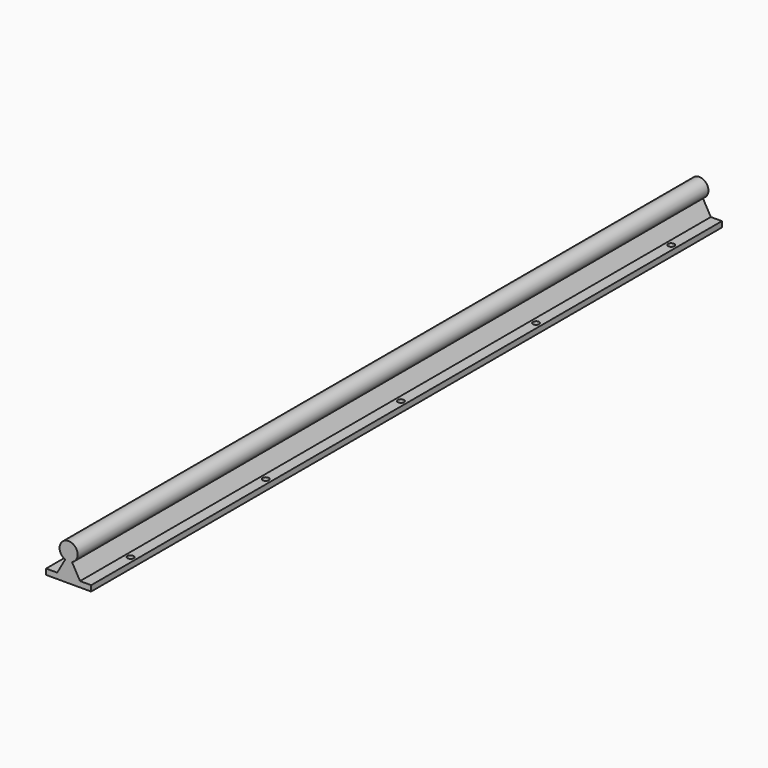
from build123d import *

# Parameters (mm, degrees)
F1_DEPTH = 700
F3_D     = 5.5


with BuildPart() as f1:
    # F0 (on Front) → F1 (new body)
    with BuildSketch(Plane.XZ):
        with BuildLine():
            Line((-20, 0), (0, 0))
            Line((0, 0), (20, 0))
            Line((20, 0), (20, 5))
            Line((20, 5), (10.1524459668, 5))
            Line((10.1524459668, 5), (3, 17.5838015129))
            ThreePointArc((3, 17.5838015129), (0, 33), (-3, 17.5838015129))
            Line((-3, 17.5838015129), (-10.1524459668, 5))
            Line((-10.1524459668, 5), (-20, 5))
            Line((-20, 5), (-20, 0))
        make_face()
    extrude(amount=F1_DEPTH)

    # F3 (through all)
    with Locations(Plane(origin=(0, 0, 0), x_dir=(1, 0, 0), z_dir=(0, 0, -1))):
        with Locations((-15, 50), (15, 50), (-15, 200), (15, 200), (-15, 350), (15, 350), (-15, 500), (15, 500), (-15, 650), (15, 650)):
            Hole(F3_D / 2)


solid = f1.part
